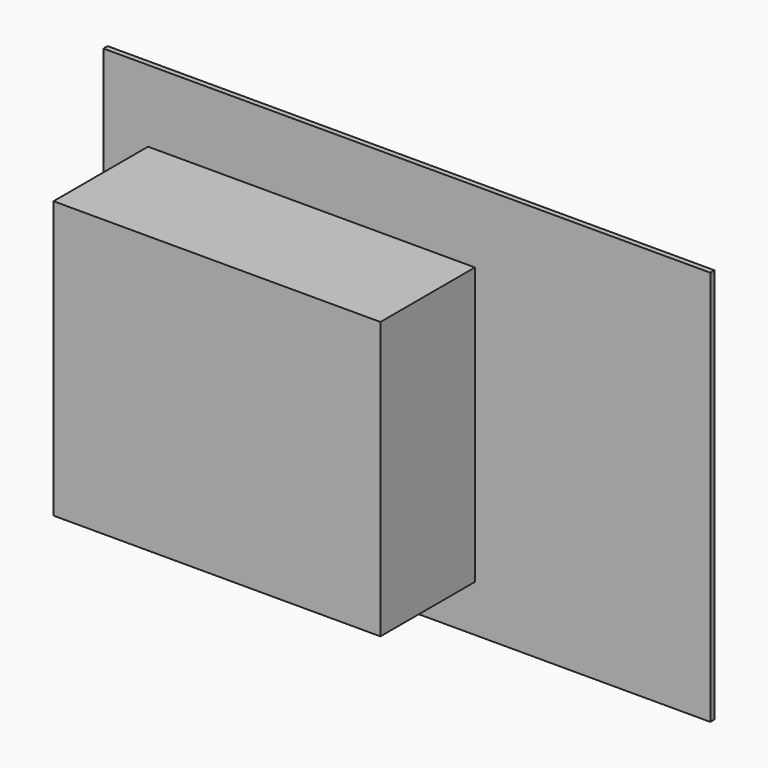
from build123d import *

# Parameters (mm, degrees)
F0_W     = 115.1
F0_H     = 75
F1_DEPTH = 1
F2_W     = 62
F2_H     = 52.5
F3_DEPTH = 25


with BuildPart() as f1:
    # F0 (on Front) → F1 (new body)
    with BuildSketch(Plane.XZ):
        with Locations((-31.4481, 47.753168)):
            Rectangle(F0_W, F0_H)
    extrude(amount=F1_DEPTH)


with BuildPart() as f3:
    # F2 (on Front) → F3 (new body)
    with BuildSketch(Plane.XZ):
        with Locations((-24.933502, -16.031646)):
            Rectangle(F2_W, F2_H)
    extrude(amount=F3_DEPTH)


with BuildPart() as f3_1:
    # F4: moved
    add(f3.part.moved(Location((-24.6, 0, 61.4))))


with BuildPart() as f3_2:
    # F5: moved
    add(f3_1.part.moved(Location((0, 1.6, 0))))


solid = Compound([f1.part, f3_2.part])
